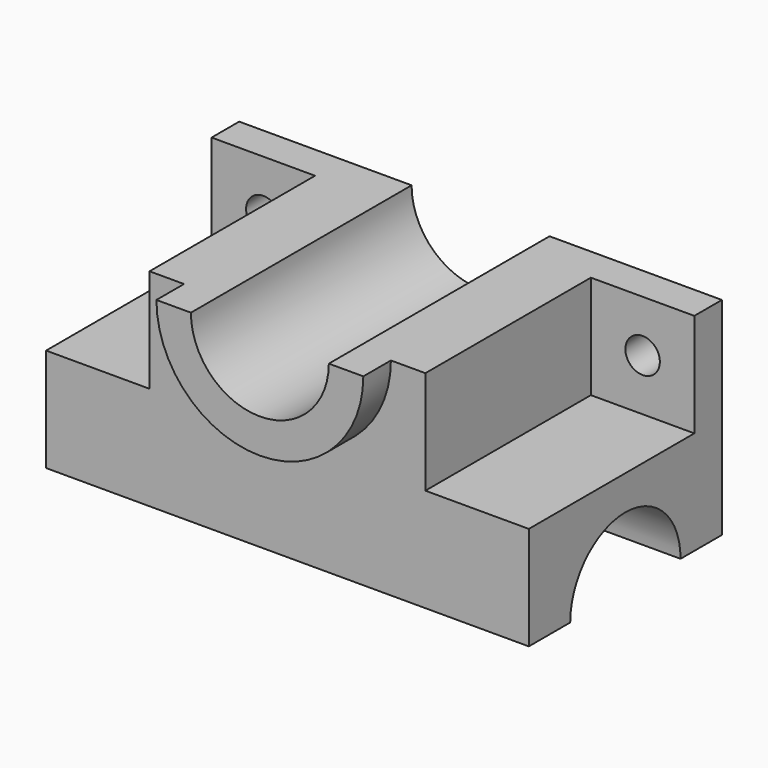
from build123d import *

# Parameters (mm, degrees)
F0_W      = 140
F0_H      = 70
F1_DEPTH  = 60
F2_W      = 30
F2_H      = 30
F3_DEPTH  = 60
F4_DEPTH  = 60
F5_R      = 5
F6_DEPTH  = 10
F8_DEPTH  = 70
F10_DEPTH = 140
F11_DEPTH = 10


with BuildPart() as f1:
    # F0 (on Top) → F1 (new body)
    with BuildSketch(Plane.XY):
        with Locations((70, 35)):
            Rectangle(F0_W, F0_H)
    extrude(amount=F1_DEPTH)

    # F2 (on face) → F3 (cut)
    with BuildSketch(Plane.XZ):
        with Locations((15, 45)):
            Rectangle(F2_W, F2_H)
    extrude(amount=-F3_DEPTH, mode=Mode.SUBTRACT)

    # F2 (on face) → F4 (cut)
    with BuildSketch(Plane.XZ):
        with Locations((125, 45)):
            Rectangle(F2_W, F2_H)
    extrude(amount=-F4_DEPTH, mode=Mode.SUBTRACT)

    # F5 (on face) → F6 (cut, through all)
    with BuildSketch(Plane.XZ.offset(-60)):
        with Locations((15, 45)):
            Circle(F5_R)
        with Locations((125, 45)):
            Circle(F5_R)
    extrude(amount=-F6_DEPTH, mode=Mode.SUBTRACT)

    # F7 (on face) → F8 (cut, through all)
    with BuildSketch(Plane.XZ):
        with BuildLine():
            ThreePointArc((50, 60), (70, 40), (90, 60))
            Line((90, 60), (50, 60))
        make_face()
    extrude(amount=-F8_DEPTH, mode=Mode.SUBTRACT)

    # F9 (on face) → F10 (cut, through all)
    with BuildSketch(Plane.YZ.offset(140)):
        with BuildLine():
            Line((15, 0), (55, 0))
            ThreePointArc((55, 0), (35, 20), (15, 0))
        make_face()
    extrude(amount=-F10_DEPTH, mode=Mode.SUBTRACT)

    # F7 (on face) → F11 (join)
    with BuildSketch(Plane.XZ):
        with BuildLine():
            Line((100, 60), (90, 60))
            ThreePointArc((90, 60), (70, 40), (50, 60))
            Line((50, 60), (40, 60))
            ThreePointArc((40, 60), (70, 30), (100, 60))
        make_face()
    extrude(amount=F11_DEPTH)


solid = f1.part
